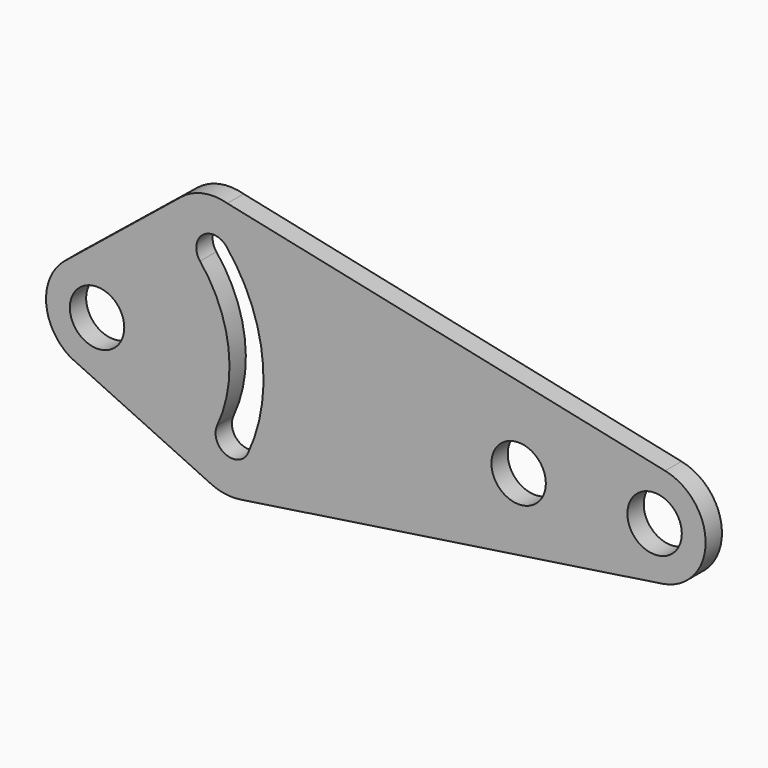
from build123d import *

# Parameters (mm, degrees)
F0_R     = 4
F1_DEPTH = 3


with BuildPart() as f1:
    # F0 (on Front) → F1 (new body)
    with BuildSketch(Plane.XZ):
        with BuildLine():
            Line((53.104726, 7.336025), (-11.265956, 21.021994))
            ThreePointArc((-11.265956, 21.021994), (-14.82391, 21.160881), (-18.044949, 19.643238))
            Line((-18.044949, 19.643238), (-35.312375, 5.680292))
            ThreePointArc((-35.312375, 5.680292), (-37.891192, -0.597124), (-34.34867, -6.385628))
            Line((-34.34867, -6.385628), (-13.478804, -16.153186))
            ThreePointArc((-13.478804, -16.153186), (-11.393882, -16.717558), (-9.234581, -16.664338))
            Line((-9.234581, -16.664338), (52.653274, -7.417663))
            ThreePointArc((52.653274, -7.417663), (59.041491, -0.229387), (53.104726, 7.336025))
        make_face()
        with Locations((-30.415, 0)):
            Circle(F0_R, mode=Mode.SUBTRACT)
        with BuildLine():
            ThreePointArc((-15.273344, 12.239736), (-14.900729, 15.75558), (-11.384885, 15.382966))
            ThreePointArc((-11.384885, 15.382966), (-6.127117, 2.979875), (-8.230613, -10.326369))
            ThreePointArc((-8.230613, -10.326369), (-11.552104, -11.537854), (-12.76359, -8.216363))
            ThreePointArc((-12.76359, -8.216363), (-11.089905, 2.370991), (-15.273344, 12.239736))
        make_face(mode=Mode.SUBTRACT)
        with Locations((31.555, 0)):
            Circle(F0_R, mode=Mode.SUBTRACT)
        with Locations((51.545, 0)):
            Circle(F0_R, mode=Mode.SUBTRACT)
    extrude(amount=F1_DEPTH)


solid = f1.part
